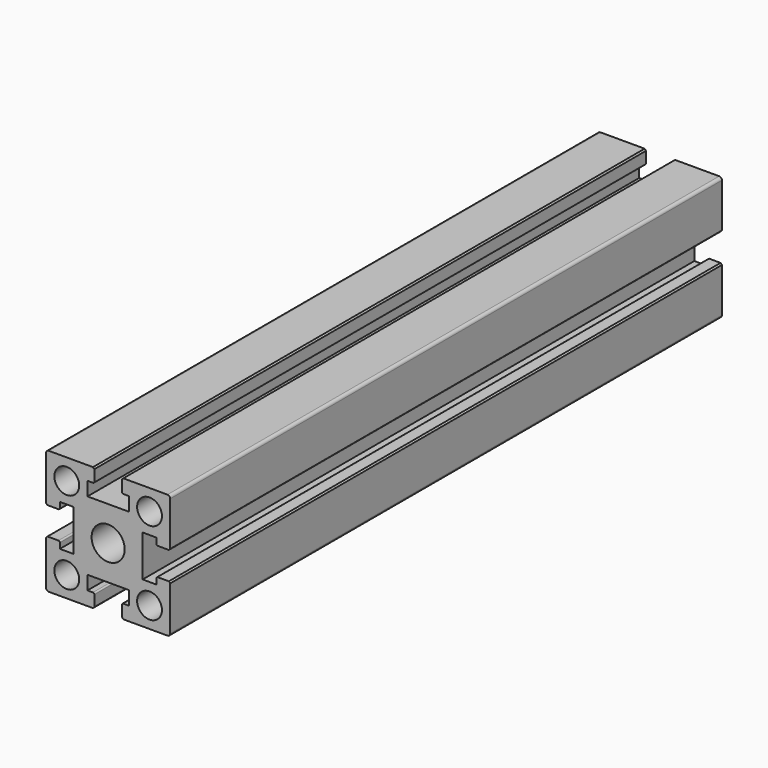
from build123d import *

# Parameters (mm, degrees)
F0_R     = 4.5
F0_R_2   = 6
F1_DEPTH = 250
F2_R     = 1
F3_R     = 0.5
F4_SIZE  = 0.5


with BuildPart() as f1:
    # F0 (on Front) → F1 (new body)
    with BuildSketch(Plane.XZ):
        Polygon((4.469697, -23.598485), (21.969697, -23.598485), (21.969697, -6.098485), (16.969697, -6.098485), (16.969697, -8.598485), (11.969697, -8.598485), (11.969697, 6.401515), (16.969697, 6.401515), (16.969697, 3.901515), (21.969697, 3.901515), (21.969697, 21.401515), (4.469697, 21.401515), (4.469697, 16.401515), (6.969697, 16.401515), (6.969697, 11.401515), (-8.030303, 11.401515), (-8.030303, 16.401515), (-5.530303, 16.401515), (-5.530303, 21.401515), (-23.030303, 21.401515), (-23.030303, 3.901515), (-18.030303, 3.901515), (-18.030303, 6.401515), (-13.030303, 6.401515), (-13.030303, -8.598485), (-18.030303, -8.598485), (-18.030303, -6.098485), (-23.030303, -6.098485), (-23.030303, -23.598485), (-5.530303, -23.598485), (-5.530303, -18.598485), (-8.030303, -18.598485), (-8.030303, -13.598485), (6.969697, -13.598485), (6.969697, -18.598485), (4.469697, -18.598485), align=None)
        with Locations((-15.530303, -16.098485)):
            Circle(F0_R, mode=Mode.SUBTRACT)
        with Locations((14.469697, -16.098485)):
            Circle(F0_R, mode=Mode.SUBTRACT)
        with Locations((-0.530303, -1.098485)):
            Circle(F0_R_2, mode=Mode.SUBTRACT)
        with Locations((-15.530303, 13.901515)):
            Circle(F0_R, mode=Mode.SUBTRACT)
        with Locations((14.469697, 13.901515)):
            Circle(F0_R, mode=Mode.SUBTRACT)
    extrude(amount=F1_DEPTH)

    # F2
    f2_edges = [f1.edges().sort_by_distance(p)[0] for p in [
        (21.969697, -125, 21.401515),
        (21.969697, -125, -23.598485),
        (-23.030303, -125, -23.598485),
        (-23.030303, -125, 21.401515),
    ]]
    fillet(f2_edges, radius=F2_R)

    # F3
    f3_edges = [f1.edges().sort_by_distance(p)[0] for p in [
        (-18.030303, -125, -6.098485),
        (-18.030303, -125, 3.901515),
        (-5.530303, -125, -18.598485),
        (4.469697, -125, -18.598485),
        (16.969697, -125, -6.098485),
        (-5.530303, -125, 16.401515),
        (4.469697, -125, 16.401515),
        (16.969697, -125, 3.901515),
    ]]
    fillet(f3_edges, radius=F3_R)

    # F4
    f4_edges = [f1.edges().sort_by_distance(p)[0] for p in [
        (21.969697, -125, -6.098485),
        (21.969697, -125, 3.901515),
        (4.469697, -125, 21.401515),
        (-5.530303, -125, 21.401515),
        (-23.030303, -125, 3.901515),
        (-23.030303, -125, -6.098485),
        (4.469697, -125, -23.598485),
        (-5.530303, -125, -23.598485),
    ]]
    chamfer(f4_edges, length=F4_SIZE)


solid = f1.part
